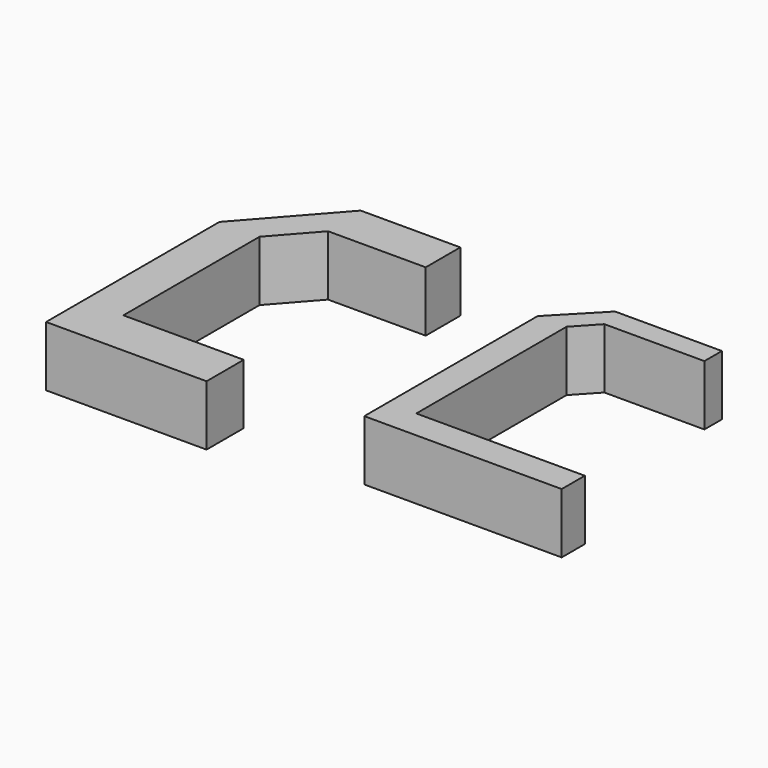
from build123d import *

# Parameters (mm, degrees)
F0_W     = 70
F0_H     = 12
F1_DEPTH = 12.5
F2_W     = 50
F2_H     = 19.306452
F3_DEPTH = 25


with BuildPart() as f1:
    # F0 (on Top) → F1 (new body, symmetric)
    with BuildSketch(Plane.XY):
        Rectangle(F0_W, F0_H)
        Polygon((-35, -6), (-35, 6), (-35, 84), (-47, 84), (-47, -6), align=None)
        Polygon((-47, 84), (-35, 84), (-26.559568, 93.100045), (-29.412404, 93.100045), (-29.412404, 102.200091), align=None)
        Polygon((-29.412404, 93.100045), (-26.559568, 93.100045), (14.993865, 93.100045), (14.993865, 102.200091), (-29.412404, 102.200091), align=None)
    extrude(amount=F1_DEPTH, both=True)


with BuildPart() as f3:
    # F2 (on Top) → F3 (new body)
    with BuildSketch(Plane.XY):
        with Locations((-112.253399, -27.918004)):
            Rectangle(F2_W, F2_H)
        Polygon((-137.253399, -37.57123), (-137.253399, -18.264778), (-137.253399, 52.42877), (-153.914686, 52.42877), (-153.914686, -37.57123), align=None)
        Polygon((-153.914686, 52.42877), (-137.253399, 52.42877), (-122.312666, 69.329864), (-123.110865, 69.329864), (-123.110865, 87.274334), align=None)
        Polygon((-123.110865, 69.329864), (-122.312666, 69.329864), (-81.743176, 69.329864), (-81.743176, 87.274334), (-123.110865, 87.274334), align=None)
    extrude(amount=F3_DEPTH)


solid = Compound([f1.part, f3.part])
